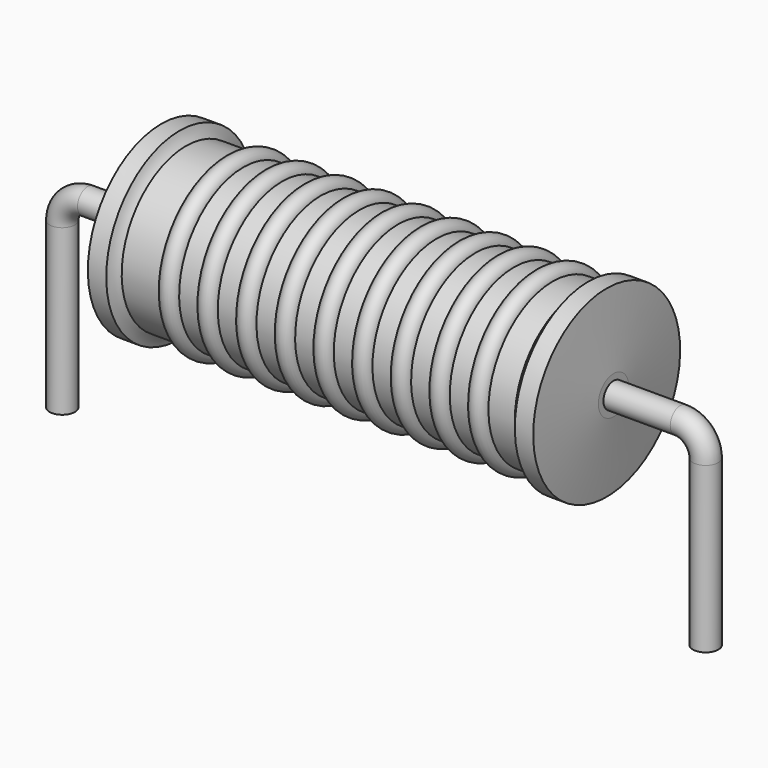
from build123d import *

# Parameters (mm, degrees)
SKETCH_R = 0.4


with BuildPart() as revolution:
    # Sketch002 → Revolution (revolve)
    with BuildSketch(Plane.XZ):
        with BuildLine():
            Line((3.1275, 5.9), (3.7075, 5.9))
            ThreePointArc((3.7075, 5.9), (3.786801, 5.70799), (3.9055, 5.5375))
            Line((3.9055, 5.5375), (16.3225, 5.5375))
            ThreePointArc((16.3225, 5.5375), (16.48618, 5.703806), (16.6125, 5.9))
            Line((16.6125, 5.9), (17.1925, 5.9))
            ThreePointArc((17.41, 3.6), (17.303281, 4.750192), (17.1925, 5.9))
            Line((17.41, 3), (17.41, 3.6))
            Line((2.91, 3), (17.41, 3))
            Line((2.91, 3), (2.91, 3.6))
            ThreePointArc((3.1275, 5.9), (3.016719, 4.750192), (2.91, 3.6))
        make_face()
    revolve(axis=Axis((2.91, 0, 3), (1, 0, 0)))


with BuildPart() as sweep_body:
    # Sweep: sweep along a path in Sketch001
    with BuildLine(Plane.XZ) as sweep_path:
        Line((0, -3), (0, 2.2))
        ThreePointArc((0, 2.2), (0.23431, 2.765681), (0.799987, 3))
        Line((0.799987, 3), (19.52, 3))
        ThreePointArc((19.52, 3), (20.085685, 2.765685), (20.32, 2.2))
        Line((20.32, 2.2), (20.32, -3))
    # Sketch → Sweep (sweep)
    with BuildSketch(Plane.XY.offset(-2)):
        Circle(SKETCH_R)
    sweep(path=sweep_path.line)


with BuildPart() as revolution001:
    # Sketch003 → Revolution001 (revolve)
    with BuildSketch(Plane.XZ):
        with BuildLine():
            ThreePointArc((5.726053, 5.4795), (5.420789, 5.784763), (5.115526, 5.4795))
            Line((4.505, 5.4795), (5.115526, 5.4795))
            Line((4.505, 5.4795), (4.505, 4.8995))
            Line((4.505, 4.8995), (16.105, 4.8995))
            Line((16.105, 4.8995), (16.105, 5.4795))
            Line((15.494474, 5.4795), (16.105, 5.4795))
            ThreePointArc((15.494474, 5.4795), (15.189211, 5.784763), (14.883947, 5.4795))
            Line((14.273421, 5.4795), (14.883947, 5.4795))
            ThreePointArc((14.273421, 5.4795), (13.968158, 5.784763), (13.662895, 5.4795))
            Line((13.052368, 5.4795), (13.662895, 5.4795))
            ThreePointArc((13.052368, 5.4795), (12.747105, 5.784763), (12.441842, 5.4795))
            Line((11.831316, 5.4795), (12.441842, 5.4795))
            ThreePointArc((11.831316, 5.4795), (11.526053, 5.784763), (11.220789, 5.4795))
            Line((10.610263, 5.4795), (11.220789, 5.4795))
            ThreePointArc((10.610263, 5.4795), (10.305, 5.784763), (9.999737, 5.4795))
            Line((9.389211, 5.4795), (9.999737, 5.4795))
            ThreePointArc((9.389211, 5.4795), (9.083947, 5.784763), (8.778684, 5.4795))
            Line((8.168158, 5.4795), (8.778684, 5.4795))
            ThreePointArc((8.168158, 5.4795), (7.862895, 5.784763), (7.557632, 5.4795))
            Line((6.947105, 5.4795), (7.557632, 5.4795))
            ThreePointArc((6.947105, 5.4795), (6.641842, 5.784763), (6.336579, 5.4795))
            Line((5.726053, 5.4795), (6.336579, 5.4795))
        make_face()
    revolve(axis=Axis((3.2725, 0, 3), (1, 0, 0)))


solid = Compound([revolution.part, sweep_body.part, revolution001.part])
